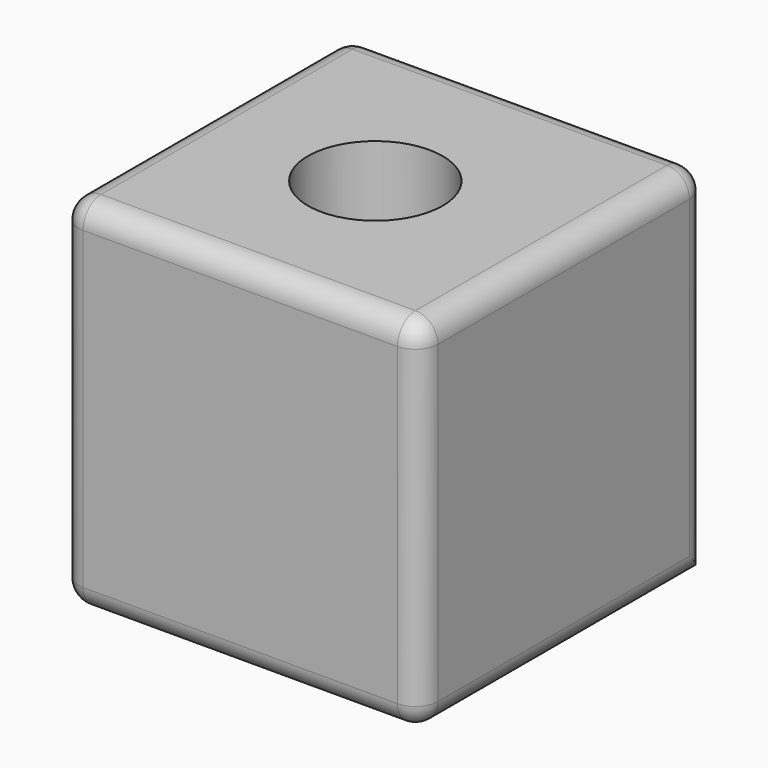
from build123d import *

# Parameters (mm, degrees)
F0_W      = 80
F0_H      = 80
F1_DEPTH  = 80
F2_R      = 15
F3_DEPTH  = 25
F3_FACE_R = 15
F4_DEPTH  = 105.001
F5_R      = 5


with BuildPart() as f1:
    # F0 (on Top) → F1 (new body)
    with BuildSketch(Plane.XY):
        with Locations((-42.658615, 40)):
            Rectangle(F0_W, F0_H)
    extrude(amount=F1_DEPTH)

    # F2 (on face) → F3 (join)
    with BuildSketch(Plane.XY.offset(80)):
        with Locations((-43.609098, 38.768075)):
            Circle(F2_R)
    extrude(amount=F3_DEPTH)

    # F3_face (on face) → F4 (cut, through all)
    with BuildSketch(Plane(origin=(-43.609098, 38.768075, 105), x_dir=(1, 0, 0), z_dir=(0, 0, 1))):
        Circle(F3_FACE_R)
    extrude(amount=-F4_DEPTH, mode=Mode.SUBTRACT)

    # F5
    f5_edges = [f1.edges().sort_by_distance(p)[0] for p in [
        (-42.658615, 0, 80),
        (-82.658615, 40, 80),
        (-42.658615, 80, 80),
        (-2.658615, 40, 80),
        (-2.658615, 0, 40),
        (-2.658615, 40, 0),
        (-2.658615, 80, 40),
        (-82.658615, 40, 0),
        (-82.658615, 80, 40),
        (-82.658615, 0, 40),
        (-42.658615, 0, 0),
    ]]
    fillet(f5_edges, radius=F5_R)


solid = f1.part
